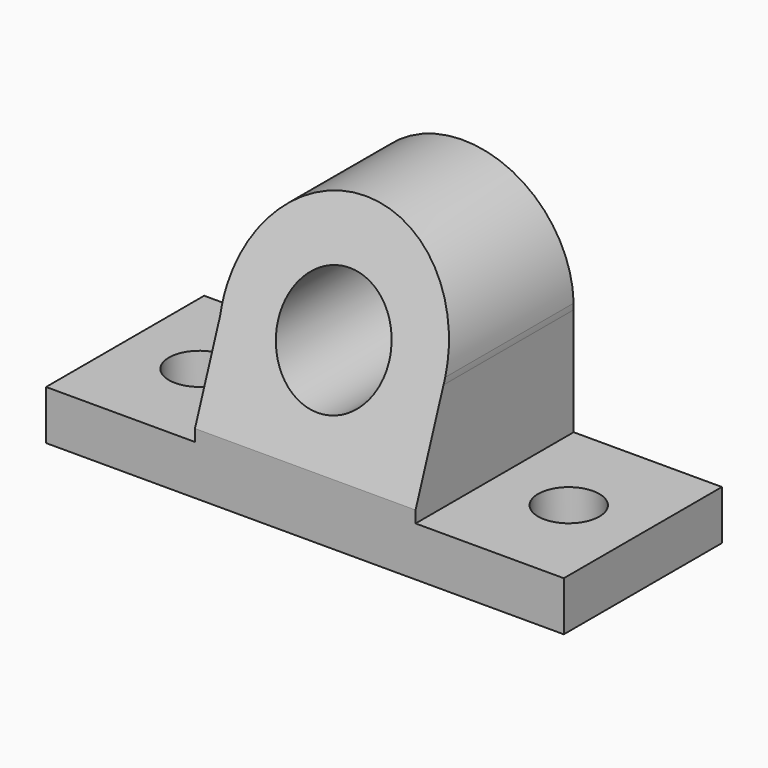
from build123d import *

# Parameters (mm, degrees)
F0_R     = 14.2875
F1_DEPTH = 50.8
F3_R     = 7.874
F2_R     = 7.874
F4_DEPTH = 25.4
F6_DEPTH = 127
F8_DEPTH = 25.4


with BuildPart() as f1:
    # F0 (on Front) → F1 (new body)
    with BuildSketch(Plane.XZ):
        Polygon((0, 12.7), (0, 0), (133.096, 0), (133.096, 12.7), (94.985996, 12.7), (94.985996, 15.748), (38.274846, 15.748), (38.274846, 12.7), align=None)
        with BuildLine():
            Line((38.274846, 37.998795), (38.274846, 15.748))
            Line((38.274846, 15.748), (94.985996, 15.748))
            Line((94.985996, 15.748), (94.985996, 40.393602))
            Line((94.985996, 40.393602), (94.985996, 41.902398))
            ThreePointArc((94.985996, 41.902398), (67.748237, 69.570669), (38.274846, 44.297205))
            Line((38.274846, 44.297205), (38.274846, 37.998795))
        make_face()
        with Locations((66.548, 41.148)):
            Circle(F0_R, mode=Mode.SUBTRACT)
        with BuildLine():
            ThreePointArc((38.274846, 44.297205), (38.1, 41.148), (38.274846, 37.998795))
            Line((38.274846, 37.998795), (38.274846, 44.297205))
        make_face()
        with BuildLine():
            Line((94.985996, 41.902398), (94.985996, 40.393602))
            ThreePointArc((94.985996, 40.393602), (94.996, 41.148), (94.985996, 41.902398))
        make_face()
    extrude(amount=F1_DEPTH)

    # F3 (on face) + F2 (on face) → F4 (cut)
    with BuildSketch(Plane.XY.offset(12.7)):
        with Locations((114.040998, -25.4)):
            Circle(F3_R)
    with BuildSketch(Plane.XY.offset(12.7)):
        with Locations((19.137423, -25.4)):
            Circle(F2_R)
    extrude(amount=-F4_DEPTH, mode=Mode.SUBTRACT)

    # F5 (on face) → F6 (cut)
    with BuildSketch(Plane.YZ.offset(94.985996)):
        Polygon((-50.8, 68.641677), (-50.8, 15.748), (-29.999232, 72.897641), (-51.085521, 72.897641), align=None)
    extrude(amount=-F6_DEPTH, mode=Mode.SUBTRACT)

    # F7 (on face) → F8 (cut)
    with BuildSketch(Plane(origin=(94.985996, 0, 0), x_dir=(0, -1, 0), z_dir=(-1, 0, 0))):
        Polygon((50.8, 40.393602), (50.8, 41.902398), (41.280578, 41.902398), (41.829734, 40.393602), align=None)
    extrude(amount=-F8_DEPTH, mode=Mode.SUBTRACT)


solid = f1.part
